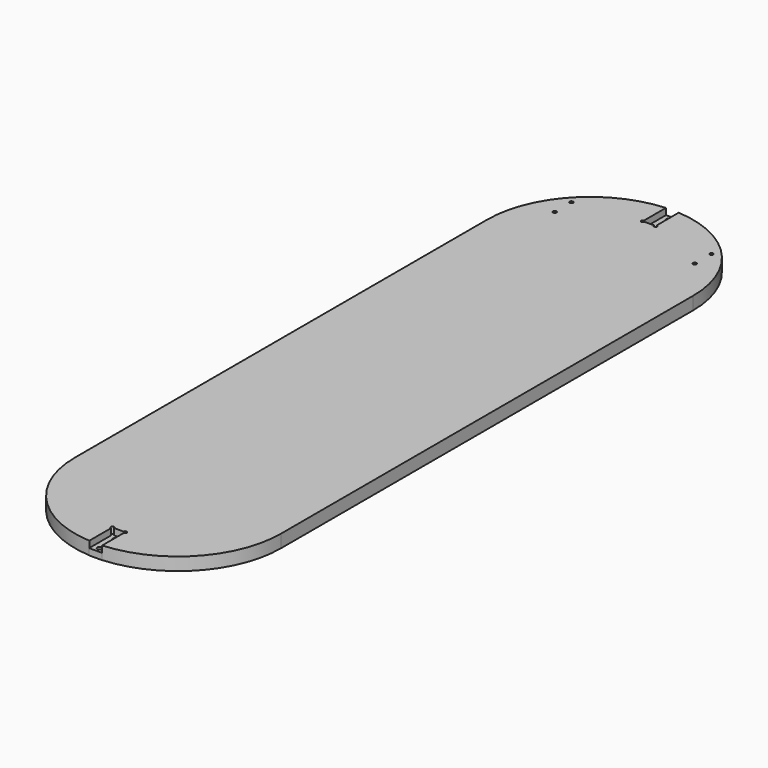
from build123d import *

# Parameters (mm, degrees)
F1_DEPTH = 12.7
F2_R     = 1.7272
F3_DEPTH = 12.7
F4_W     = 12.7
F4_H     = 28.575
F5_DEPTH = 6.35
F6_R     = 1.5875
F7_DEPTH = 6.35
F8_R     = 2.15265
F9_DEPTH = 12.7


with BuildPart() as f1:
    # F0 (on Top) → F1 (new body)
    with BuildSketch(Plane.XY):
        with BuildLine():
            Line((0, -508), (0, 0))
            ThreePointArc((0, 0), (-27.5469109355, 69.5607648032), (-95.25, 101.401368334))
            Line((-95.25, 101.401368334), (-95.25, 101.6))
            Line((-95.25, 101.6), (-107.95, 101.6))
            Line((-107.95, 101.6), (-107.95, 101.401368334))
            ThreePointArc((-107.95, 101.401368334), (-175.6530890645, 69.5607648032), (-203.2, 0))
            Line((-203.2, 0), (-203.2, -508))
            ThreePointArc((-203.2, -508), (-175.6530890645, -577.5607648032), (-107.95, -609.401368334))
            Line((-107.95, -609.401368334), (-107.95, -609.6))
            Line((-107.95, -609.6), (-95.25, -609.6))
            Line((-95.25, -609.6), (-95.25, -609.401368334))
            ThreePointArc((-95.25, -609.401368334), (-27.5469109355, -577.5607648032), (0, -508))
        make_face()
    extrude(amount=F1_DEPTH)

    # F2 (on face) → F3 (cut, through all)
    with BuildSketch(Plane.XY.offset(12.7)):
        with Locations((-32.54375, 63.404136047)):
            Circle(F2_R)
        with Locations((-32.54375, 42.766636047)):
            Circle(F2_R)
        with Locations((-170.65625, 42.766636047)):
            Circle(F2_R)
        with Locations((-170.65625, 63.404136047)):
            Circle(F2_R)
    extrude(amount=-F3_DEPTH, mode=Mode.SUBTRACT)

    # F4 (on face) → F5 (cut)
    with BuildSketch(Plane.XY.offset(12.7)):
        with Locations((-101.6, 87.3125)):
            Rectangle(F4_W, F4_H)
        with Locations((-101.6, -595.3125)):
            Rectangle(F4_W, F4_H)
    extrude(amount=-F5_DEPTH, mode=Mode.SUBTRACT)

    # F6 (on face) → F7 (cut, through all)
    with BuildSketch(Plane.XY.offset(12.7)):
        with Locations((-107.95, -581.025)):
            Circle(F6_R)
        with Locations((-95.25, -581.025)):
            Circle(F6_R)
        with Locations((-107.95, 73.025)):
            Circle(F6_R)
        with Locations((-95.25, 73.025)):
            Circle(F6_R)
    extrude(amount=-F7_DEPTH, mode=Mode.SUBTRACT)

    # F8 (on face) → F9 (cut, through all)
    with BuildSketch(Plane(origin=(0, 0, 0), x_dir=(1, 0, 0), z_dir=(0, 0, -1))):
        with Locations((-101.6, -96.8375)):
            Circle(F8_R)
        with Locations((-101.6, -77.7875)):
            Circle(F8_R)
        with Locations((-101.6, 604.8375)):
            Circle(F8_R)
        with Locations((-101.6, 585.7875)):
            Circle(F8_R)
    extrude(amount=-F9_DEPTH, mode=Mode.SUBTRACT)


solid = f1.part
